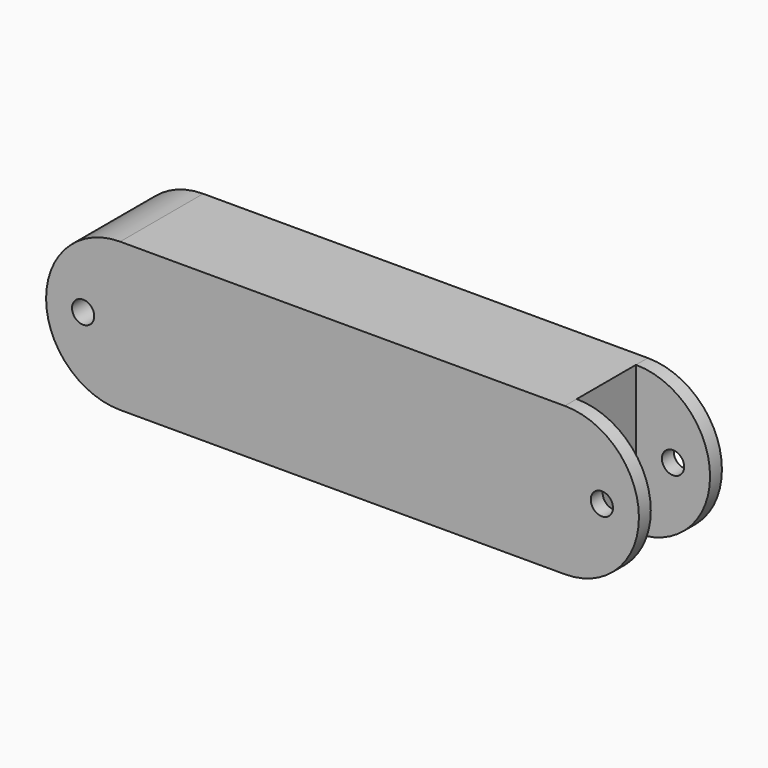
from build123d import *

# Parameters (mm, degrees)
F1_DEPTH = 7
F2_W     = 5.193473
F2_H     = 5
F3_DEPTH = 25
F4_R     = 0.75
F5_DEPTH = 25


with BuildPart() as f1:
    # F0 (on Front) → F1 (new body)
    with BuildSketch(Plane.XZ):
        with BuildLine():
            Line((30, 5), (0, 5))
            ThreePointArc((0, 5), (-5, 0), (0, -5))
            Line((0, -5), (30, -5))
            ThreePointArc((30, -5), (35, 0), (30, 5))
        make_face()
    extrude(amount=F1_DEPTH)

    # F2 (on face) → F3 (cut)
    with BuildSketch(Plane.XY.offset(5)):
        with Locations((32.596736, -3.5)):
            Rectangle(F2_W, F2_H)
    extrude(amount=-F3_DEPTH, mode=Mode.SUBTRACT)

    # F4 (on face) → F5 (cut)
    with BuildSketch(Plane.XZ.offset(7)):
        with Locations((32.5, 0)):
            Circle(F4_R)
        with Locations((-2.5, 0)):
            Circle(F4_R)
    extrude(amount=-F5_DEPTH, mode=Mode.SUBTRACT)


solid = f1.part
